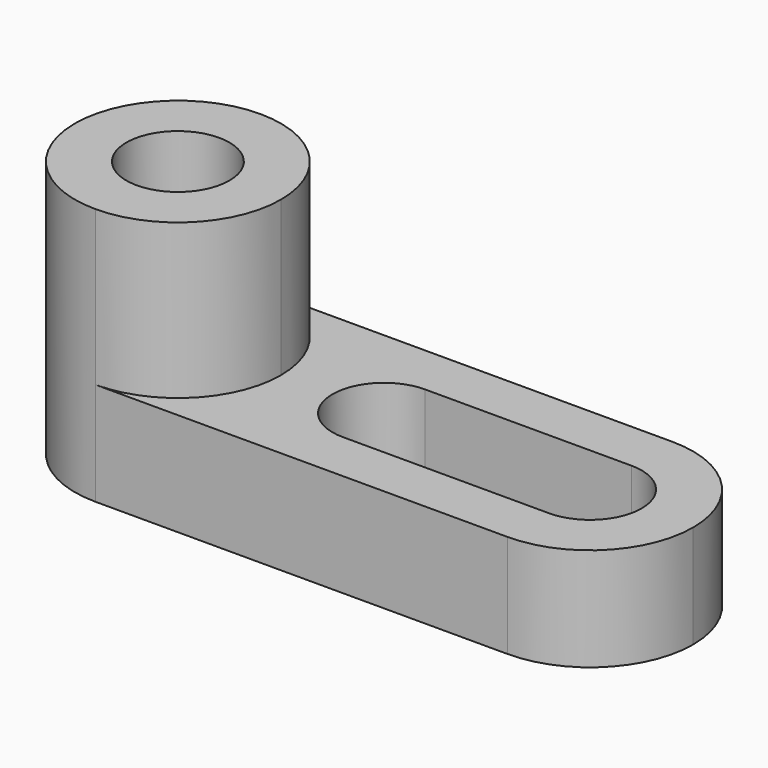
from build123d import *

# Parameters (mm, degrees)
F1_DEPTH  = 25.4
F2_R      = 6.35
F3_DEPTH  = 57.15
F5_DEPTH  = 31.75
F7_DEPTH  = 19.05
F9_DEPTH  = 12.7
F11_DEPTH = 12.7


with BuildPart() as f1:
    # F0 (on Front) → F1 (new body)
    with BuildSketch(Plane.XZ):
        Polygon((-36.3545019062, 31.75), (-61.7545019062, 31.75), (-61.7545019062, 0), (14.4454980938, 0), (14.4454980938, 12.7), (-36.3545019062, 12.7), align=None)
    extrude(amount=F1_DEPTH)

    # F2 (on face) → F3 (cut)
    with BuildSketch(Plane.XY.offset(31.75)):
        with Locations((-49.0545019062, -12.7)):
            Circle(F2_R)
    extrude(amount=-F3_DEPTH, mode=Mode.SUBTRACT)

    # F4 (on face) → F5 (cut)
    with BuildSketch(Plane.XY.offset(31.75)):
        with BuildLine():
            ThreePointArc((-61.7545019062, -12.6999997152), (-58.0347579265, -3.7197437782), (-49.0545019062, 0))
            Line((-49.0545019062, 0), (-61.7545019062, 0))
            Line((-61.7545019062, 0), (-61.7545019062, -12.6999997152))
        make_face()
        with BuildLine():
            Line((-61.7545019062, -25.4), (-49.0545019062, -25.4))
            ThreePointArc((-49.0545019062, -25.4), (-58.0347581279, -21.6802560204), (-61.7545019062, -12.6999997152))
            Line((-61.7545019062, -12.6999997152), (-61.7545019062, -25.4))
        make_face()
    extrude(amount=-F5_DEPTH, mode=Mode.SUBTRACT)

    # F6 (on face) → F7 (cut)
    with BuildSketch(Plane.XY.offset(31.75)):
        with BuildLine():
            ThreePointArc((-49.0545019062, 0), (-40.0742457851, -3.7197438789), (-36.3545019062, -12.7))
            Line((-36.3545019062, -12.7), (-36.3545019062, 0))
            Line((-36.3545019062, 0), (-49.0545019062, 0))
        make_face()
        with BuildLine():
            Line((-36.3545019062, -25.4), (-36.3545019062, -12.7))
            ThreePointArc((-36.3545019062, -12.7), (-40.0742457851, -21.6802561211), (-49.0545019062, -25.4))
            Line((-49.0545019062, -25.4), (-36.3545019062, -25.4))
        make_face()
    extrude(amount=-F7_DEPTH, mode=Mode.SUBTRACT)

    # F8 (on face) → F9 (cut)
    with BuildSketch(Plane.XY.offset(12.7)):
        with BuildLine():
            ThreePointArc((-23.6545019062, -19.05), (-19.1643738456, -17.1901280605), (-17.3045019062, -12.7))
            ThreePointArc((-17.3045019062, -12.7), (-19.1643738456, -8.2098719395), (-23.6545019062, -6.35))
            ThreePointArc((-23.6545019062, -6.35), (-30.0045019062, -12.7), (-23.6545019062, -19.05))
        make_face()
        with BuildLine():
            ThreePointArc((-23.6545019062, -6.35), (-19.1643738456, -8.2098719395), (-17.3045019062, -12.7))
            ThreePointArc((-17.3045019062, -12.7), (-19.1643738456, -17.1901280605), (-23.6545019062, -19.05))
            Line((-23.6545019062, -19.05), (1.7454980938, -19.05))
            ThreePointArc((1.7454980938, -19.05), (-4.6045019062, -12.7), (1.7454980938, -6.35))
            Line((1.7454980938, -6.35), (-23.6545019062, -6.35))
        make_face()
        with BuildLine():
            ThreePointArc((8.0954980938, -12.7), (6.2356261544, -8.2098719395), (1.7454980938, -6.35))
            ThreePointArc((1.7454980938, -6.35), (-4.6045019062, -12.7), (1.7454980938, -19.05))
            ThreePointArc((1.7454980938, -19.05), (6.2356261544, -17.1901280605), (8.0954980938, -12.7))
        make_face()
    extrude(amount=-F9_DEPTH, mode=Mode.SUBTRACT)

    # F10 (on face) → F11 (cut)
    with BuildSketch(Plane.XY.offset(12.7)):
        with BuildLine():
            ThreePointArc((1.7454980938, 0), (10.7257542149, -3.7197438789), (14.4454980938, -12.7))
            Line((14.4454980938, -12.7), (14.4454980938, 0))
            Line((14.4454980938, 0), (1.7454980938, 0))
        make_face()
        with BuildLine():
            Line((14.4454980938, -25.4), (14.4454980938, -12.7))
            ThreePointArc((14.4454980938, -12.7), (10.7257542149, -21.6802561211), (1.7454980938, -25.4))
            Line((1.7454980938, -25.4), (14.4454980938, -25.4))
        make_face()
    extrude(amount=-F11_DEPTH, mode=Mode.SUBTRACT)


solid = f1.part
